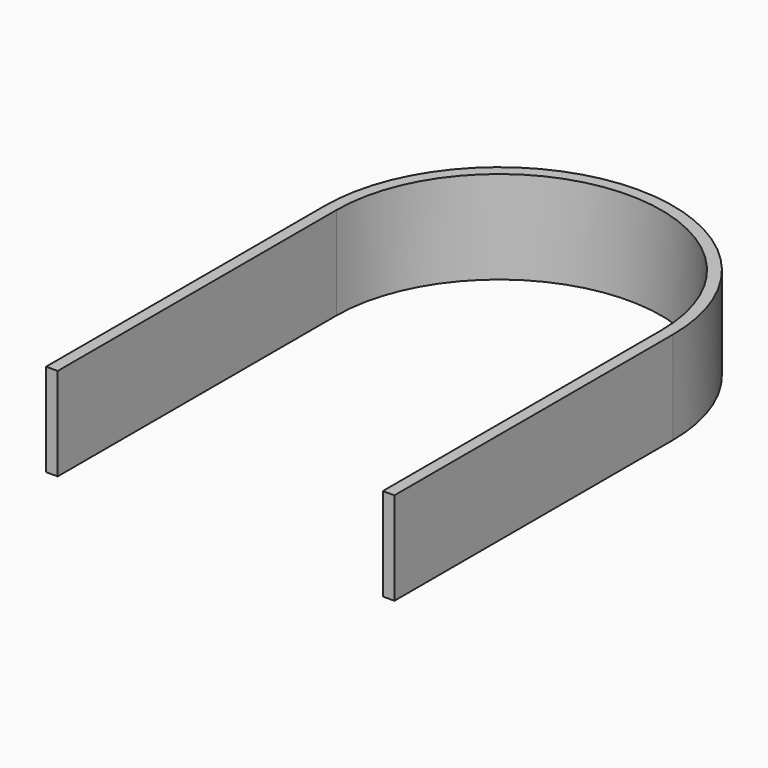
from build123d import *

# Parameters (mm, degrees)
F0_W     = 76.2
F0_H     = 76.2
F1_DEPTH = 20.066
F2_DEPTH = 0.254
F3_T     = -2.54


with BuildPart() as f1:
    # F0 (on Top) → F1 (new body)
    with BuildSketch(Plane.XY):
        Rectangle(F0_W, F0_H)
        with BuildLine():
            Line((-38.1, 38.1), (38.1, 38.1))
            ThreePointArc((38.1, 38.1), (0, 76.2), (-38.1, 38.1))
        make_face()
    extrude(amount=F1_DEPTH)

    # F2 (add): a face of the model
    f2_faces = [f1.faces().sort_by_distance(p)[0] for p in [
        (0, 15.3025411539, 20.066),
    ]]
    extrude(f2_faces, amount=F2_DEPTH)

    # F3
    f3_openings = [f1.faces().sort_by_distance(p)[0] for p in [
        (0, -38.1, 10.16),
        (0, 15.302541, 20.32),
        (0, 15.302541, 0),
    ]]
    offset(amount=F3_T, openings=f3_openings)


solid = f1.part
